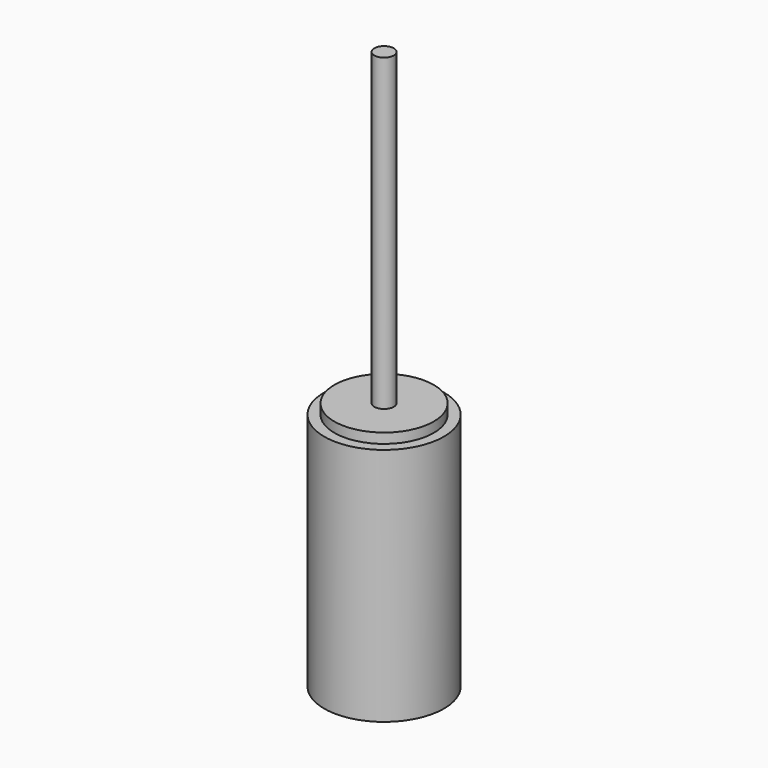
from build123d import *

# Parameters (mm, degrees)
F0_R      = 38.1
F1_DEPTH  = 76.2
F2_T      = -6.35
F3_R      = 31.75
F4_DEPTH  = 6.35
F5_R      = 6.35
F6_DEPTH  = 152.401
F7_R      = 6.223
F8_DEPTH  = 203.2
F9_R      = 31.623
F9_R_2    = 6.223
F10_DEPTH = 6.35


with BuildPart() as f1:
    # F0 (on Top) → F1 (new body, symmetric)
    with BuildSketch(Plane.XY):
        Circle(F0_R)
    extrude(amount=F1_DEPTH, both=True)

    # F2
    f2_openings = [f1.faces().sort_by_distance(p)[0] for p in [
        (0, 0, 76.2),
    ]]
    offset(amount=F2_T, openings=f2_openings)


with BuildPart() as f4:
    # F3 (on face) → F4 (new body)
    with BuildSketch(Plane.XY.offset(76.2)):
        Circle(F3_R)
    extrude(amount=-F4_DEPTH)

    # F5 (on face) → F6 (cut, through all)
    with BuildSketch(Plane.XY.offset(76.2)):
        Circle(F5_R)
    extrude(amount=-F6_DEPTH, mode=Mode.SUBTRACT)


with BuildPart() as f8:
    # F7 (on face) → F8 (new body)
    with BuildSketch(Plane.XY.offset(76.2)):
        Circle(F7_R)
    extrude(amount=F8_DEPTH)


with BuildPart() as f10:
    # F9 (on face) → F10 (new body)
    with BuildSketch(Plane(origin=(0, 0, 76.2), x_dir=(1, 0, 0), z_dir=(0, 0, -1))):
        Circle(F9_R)
        Circle(F9_R_2, mode=Mode.SUBTRACT)
    extrude(amount=-F10_DEPTH)


solid = Compound([f1.part, f4.part, f8.part, f10.part])
